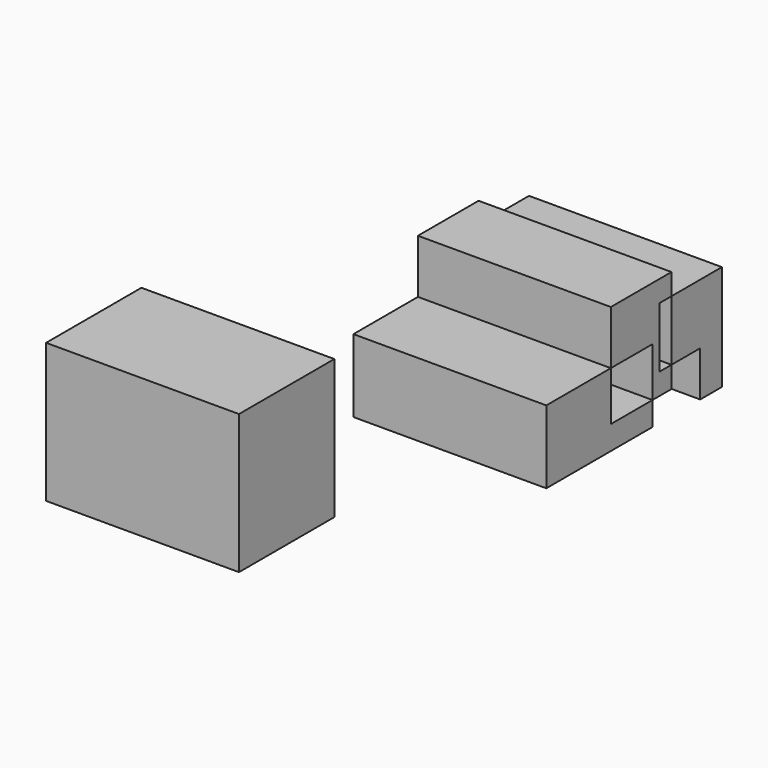
from build123d import *

# Parameters (mm, degrees)
F1_DEPTH = 141.605
F0_W     = 19.9309587479
F0_H     = 44.3162918091
F0_H_2   = 33.1525355577
F0_W_2   = 26.3430923223
F0_W_3   = 87.48665452
F0_H_3   = 102.1797172725


with BuildPart() as f1:
    # F0 (on Right) → F1 (new body)
    with BuildSketch(Plane.YZ):
        Polygon((88.0146995187, -94.0050780773), (88.0146995187, -57.8717216849), (28.8094133139, -57.8717216849), (28.8094133139, -111.4616468549), (126.2522339821, -111.4616468549), (126.2522339821, -94.0050780773), align=None)
    extrude(amount=F1_DEPTH)


with BuildPart() as f1b:
    # F0 (on Right) → F1, piece 2 (new body)
    with BuildSketch(Plane.YZ):
        with Locations((179.9681186676, -56.1509653926)):
            Rectangle(F0_W, F0_H)
        with Locations((179.9681186676, -94.885379076)):
            Rectangle(F0_W, F0_H_2)
        with Locations((156.8310931325, -56.1509653926)):
            Rectangle(F0_W_2, F0_H)
    extrude(amount=F1_DEPTH)


with BuildPart() as f1c:
    # F0 (on Right) → F1, piece 3 (new body)
    with BuildSketch(Plane.YZ):
        Polygon((143.6595469713, -33.992819488), (143.6595469713, -18.3596462011), (88.0146995187, -18.3596462011), (88.0146995187, -57.8717216849), (126.2522339821, -57.8717216849), (126.2522339821, -94.0050780773), (143.6595469713, -94.0050780773), (143.6595469713, -78.3091112971), (132.8343451023, -78.3091112971), (132.8343451023, -33.992819488), align=None)
    extrude(amount=F1_DEPTH)


with BuildPart() as f1d:
    # F0 (on Right) → F1, piece 4 (new body)
    with BuildSketch(Plane.YZ):
        with Locations((-209.4305902719, 0.0704359263)):
            Rectangle(F0_W_3, F0_H_3)
    extrude(amount=F1_DEPTH)


solid = Compound([f1.part, f1b.part, f1c.part, f1d.part])
